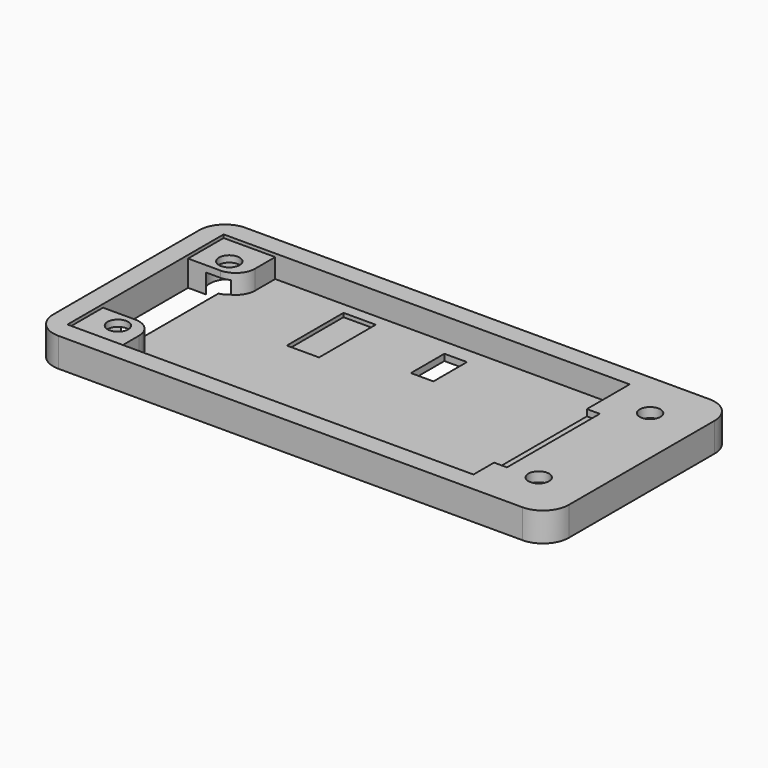
from build123d import *

# Parameters (mm, degrees)
F0_W      = 80
F0_H      = 36.3
F1_DEPTH  = 4.5
F2_R      = 4
F3_W      = 63
F3_H      = 30.3
F4_DEPTH  = 3.5
F5_W      = 5
F5_H      = 16.5
F5_W_2    = 3.5
F5_H_2    = 6.5
F6_DEPTH  = 4.501
F7_W      = 2
F7_H      = 18
F8_DEPTH  = 1
F10_DEPTH = 3
F11_R     = 1.6
F12_DEPTH = 4.501
F13_R     = 3
F14_DEPTH = 3
F15_W     = 5
F15_H     = 11
F16_DEPTH = 0.6


with BuildPart() as f1:
    # F0 (on Top) → F1 (new body)
    with BuildSketch(Plane.XY):
        with Locations((37, 15.15)):
            Rectangle(F0_W, F0_H)
    extrude(amount=F1_DEPTH)

    # F2
    f2_edges = [f1.edges().sort_by_distance(p)[0] for p in [
        (-3, -3, 2.25),
        (77, -3, 2.25),
        (77, 33.3, 2.25),
        (-3, 33.3, 2.25),
    ]]
    fillet(f2_edges, radius=F2_R)

    # F3 (on face) → F4 (cut)
    with BuildSketch(Plane.XY.offset(4.5)):
        with Locations((31.5, 15.15)):
            Rectangle(F3_W, F3_H)
    extrude(amount=-F4_DEPTH, mode=Mode.SUBTRACT)

    # F5 (on face) → F6 (cut, through all)
    with BuildSketch(Plane.XY.offset(4.5)):
        with Locations((2.5, 15.15)):
            Rectangle(F5_W, F5_H)
        with Locations((38, 24.55)):
            Rectangle(F5_W_2, F5_H_2)
    extrude(amount=-F6_DEPTH, mode=Mode.SUBTRACT)

    # F7 (on face) → F8 (cut)
    with BuildSketch(Plane.XY.offset(4.5)):
        with Locations((64, 13)):
            Rectangle(F7_W, F7_H)
    extrude(amount=-F8_DEPTH, mode=Mode.SUBTRACT)

    # F9 (on face) → F10 (join)
    with BuildSketch(Plane.XY.offset(1)):
        with BuildLine():
            Line((8, 30.3), (0, 30.3))
            Line((0, 30.3), (0, 23.4))
            Line((0, 23.4), (5, 23.4))
            ThreePointArc((5, 23.4), (7.12132, 24.27868), (8, 26.4))
            Line((8, 26.4), (8, 30.3))
        make_face()
        with BuildLine():
            Line((5, 6.9), (0, 6.9))
            Line((0, 6.9), (0, 0))
            Line((0, 0), (8, 0))
            Line((8, 0), (8, 3.9))
            ThreePointArc((8, 3.9), (7.12132, 6.02132), (5, 6.9))
        make_face()
    extrude(amount=F10_DEPTH)

    # F11 (on face) → F12 (cut, through all)
    with BuildSketch(Plane.XY.offset(4.5)):
        with Locations((4.35, 4.35)):
            Circle(F11_R)
        with Locations((4.35, 25.95)):
            Circle(F11_R)
        with Locations((69.65, 25.95)):
            Circle(F11_R)
        with Locations((69.65, 4.35)):
            Circle(F11_R)
    extrude(amount=-F12_DEPTH, mode=Mode.SUBTRACT)

    # F13 (on face) → F14 (cut)
    with BuildSketch(Plane(origin=(0, 0, 0), x_dir=(1, 0, 0), z_dir=(0, 0, -1))):
        with Locations((69.65, -25.95)):
            Circle(F13_R)
        with Locations((69.65, -4.35)):
            Circle(F13_R)
        with BuildLine():
            ThreePointArc((4.35, -28.95), (6.47132, -28.07132), (7.35, -25.95))
            ThreePointArc((7.35, -25.95), (2.22868, -23.82868), (4.35, -28.95))
        make_face()
        with Locations((4.35, -4.35)):
            Circle(F13_R)
    extrude(amount=-F14_DEPTH, mode=Mode.SUBTRACT)

    # F15 (on face) → F16 (cut)
    with BuildSketch(Plane.XY.offset(1)):
        with Locations((22.5, 23.05)):
            Rectangle(F15_W, F15_H)
    extrude(amount=-F16_DEPTH, mode=Mode.SUBTRACT)


solid = f1.part
